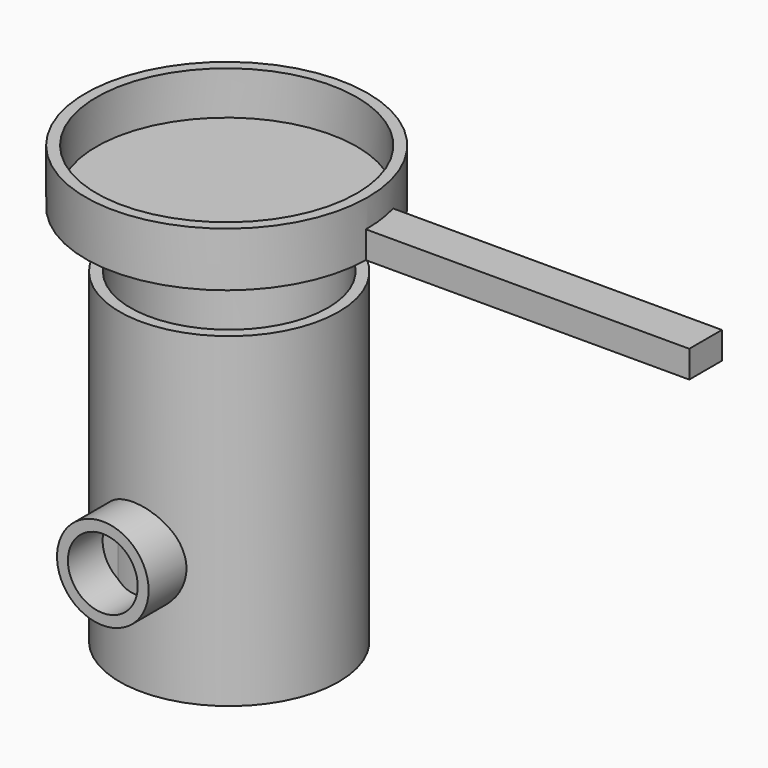
from build123d import *

# Parameters (mm, degrees)
F0_R      = 25.626751
F1_DEPTH  = 76.2
F2_T      = -2.54
F4_R      = 10.7114
F5_DEPTH  = 12.7
F6_T      = -2.54
F10_R     = 32.996544
F11_DEPTH = 12.7
F12_T     = -2.54
F13_W     = 77.405391
F13_H     = 9.550019
F14_DEPTH = 6.35


with BuildPart() as f1:
    # F0 (on Top) → F1 (new body)
    with BuildSketch(Plane.XY):
        with Locations((-35.855755, 28.653288)):
            Circle(F0_R)
    extrude(amount=F1_DEPTH)

    # F2
    f2_openings = [f1.faces().sort_by_distance(p)[0] for p in [
        (-35.855755, 28.653288, 76.2),
    ]]
    offset(amount=F2_T, openings=f2_openings)


with BuildPart() as f5:
    # F4 (on offset) → F5 (new body)
    with BuildSketch(Plane.XZ.offset(6.35)):
        with Locations((-37.421506, 27.713835)):
            Circle(F4_R)
    extrude(amount=-F5_DEPTH)

    # F6
    f6_openings = [f5.faces().sort_by_distance(p)[0] for p in [
        (-37.421506, -6.35, 27.713835),
    ]]
    offset(amount=F6_T, openings=f6_openings)


with BuildPart() as f11:
    # F10 (on offset) → F11 (new body)
    with BuildSketch(Plane.XY.offset(88.9)):
        with Locations((-36.910009, 29.240139)):
            Circle(F10_R)
    extrude(amount=F11_DEPTH)

    # F12
    f12_openings = [f11.faces().sort_by_distance(p)[0] for p in [
        (-36.910009, 29.240139, 101.6),
    ]]
    offset(amount=F12_T, openings=f12_openings)

    # F13 (on offset) → F14 (join)
    with BuildSketch(Plane.XY.offset(88.9)):
        with Locations((33.059724, 33.457451)):
            Rectangle(F13_W, F13_H)
    extrude(amount=F14_DEPTH)


solid = Compound([f1.part, f5.part, f11.part])
